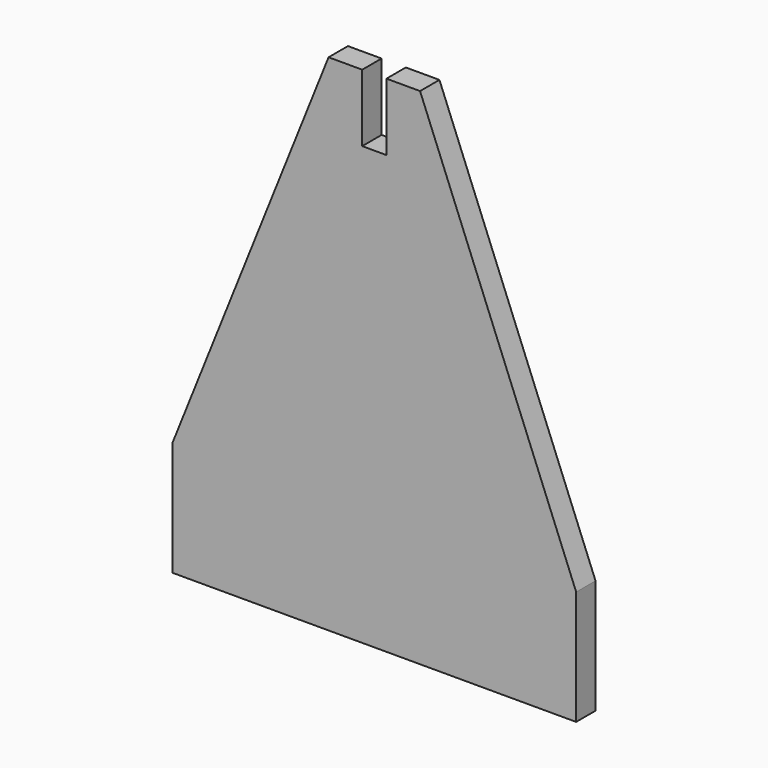
from build123d import *

# Parameters (mm, degrees)
PAD_DEPTH = 18


with BuildPart() as part:
    # Sketch → Pad (new body)
    with BuildSketch(Plane.XZ):
        Polygon((0, 0), (0, 85), (116, 375), (141, 375), (141, 325), (159, 325), (159, 375), (184, 375), (300, 85), (300, 0), align=None)
    extrude(amount=PAD_DEPTH)


solid = part.part
